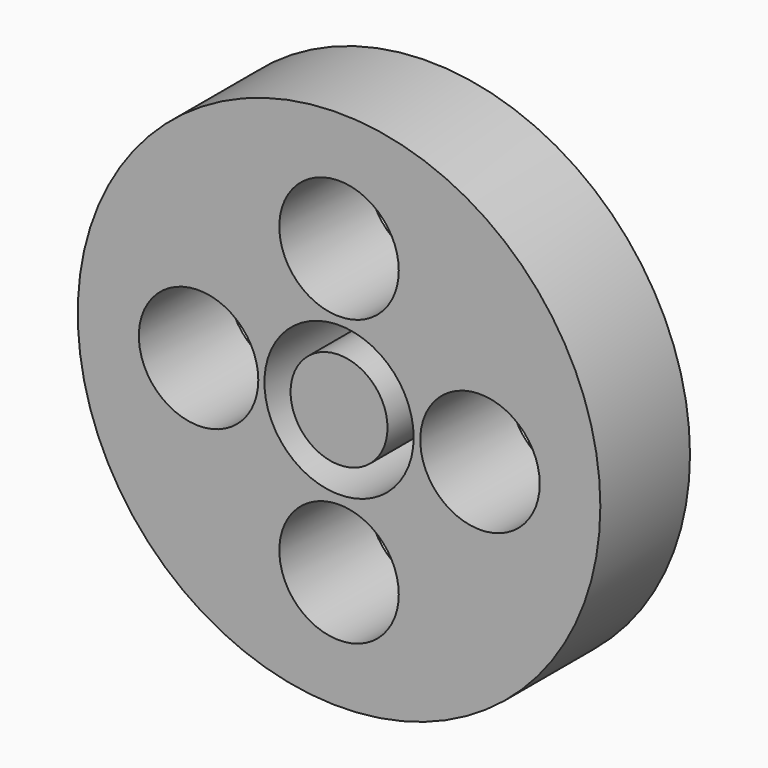
from build123d import *

# Parameters (mm, degrees)
F0_R     = 35.0012
F0_R_2   = 29.9974
F0_R_3   = 8.001
F0_R_4   = 9.9949
F1_DEPTH = 15.0114
F0_R_5   = 6.4922316386


with BuildPart() as f1:
    # F0 (on Front) → F1 (new body)
    with BuildSketch(Plane.XZ):
        with Locations((34.2616300812, 0)):
            Circle(F0_R)
        with Locations((34.2616300812, 0)):
            Circle(F0_R_2, mode=Mode.SUBTRACT)
        with Locations((34.2616300812, 0)):
            Circle(F0_R_2)
        with Locations((34.2616300812, -19.168293041)):
            Circle(F0_R_3, mode=Mode.SUBTRACT)
        with Locations((15.4443772489, 0)):
            Circle(F0_R_3, mode=Mode.SUBTRACT)
        with Locations((34.2616300812, 0)):
            Circle(F0_R_4, mode=Mode.SUBTRACT)
        with Locations((53.1430010947, 0)):
            Circle(F0_R_3, mode=Mode.SUBTRACT)
        with Locations((34.2616300812, 19.0161795357)):
            Circle(F0_R_3, mode=Mode.SUBTRACT)
    extrude(amount=F1_DEPTH)


with BuildPart() as f1b:
    # F0 (on Front) → F1, piece 2 (new body)
    with BuildSketch(Plane.XZ):
        with Locations((34.2616300812, 0)):
            Circle(F0_R_5)
    extrude(amount=F1_DEPTH)


solid = Compound([f1.part, f1b.part])
